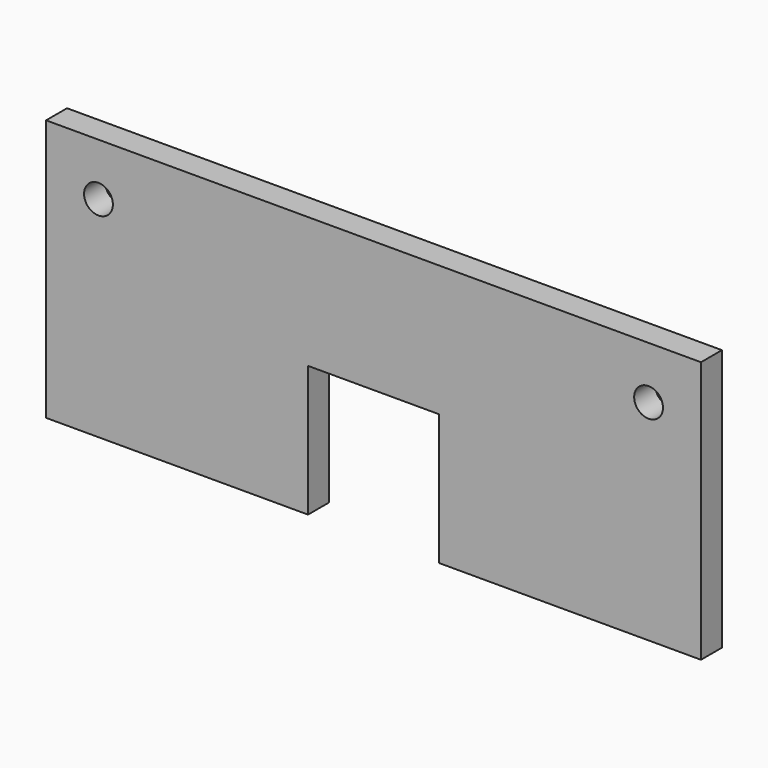
from build123d import *

# Parameters (mm, degrees)
F0_R     = 11
F1_DEPTH = 20


with BuildPart() as f1:
    # F0 (on Front) → F1 (new body)
    with BuildSketch(Plane.XZ):
        Polygon((0, 200), (0, 0), (200, 0), (200, 100), (300, 100), (300, 0), (500, 0), (500, 200), align=None)
        with Locations((40, 160)):
            Circle(F0_R, mode=Mode.SUBTRACT)
        with Locations((460, 160)):
            Circle(F0_R, mode=Mode.SUBTRACT)
    extrude(amount=F1_DEPTH)


solid = f1.part
